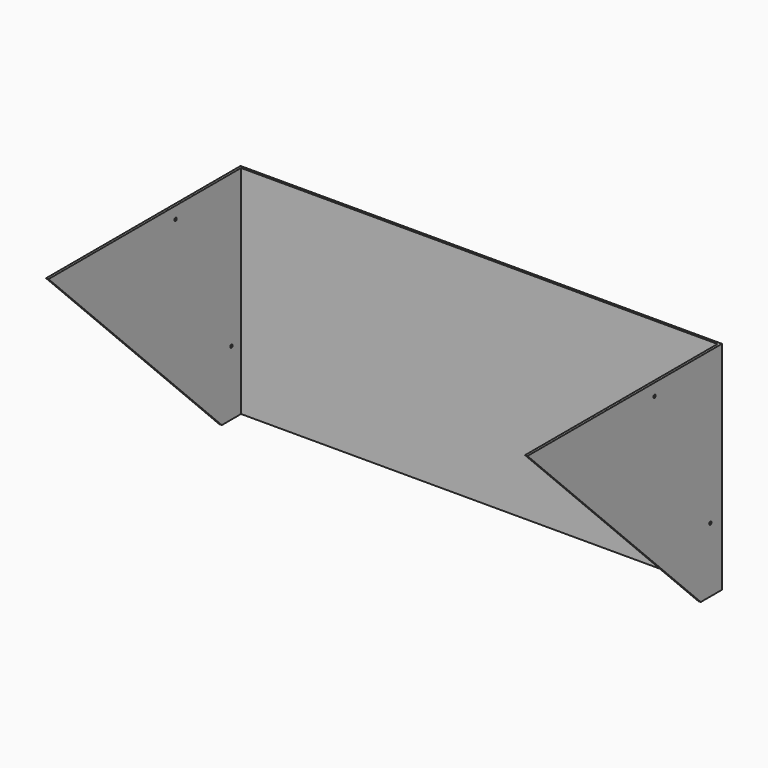
from build123d import *

# Parameters (mm, degrees)
F0_W     = 2000
F0_H     = 900
F1_DEPTH = 5
F2_W     = 10
F2_H     = 900
F3_DEPTH = 1000
F5_DEPTH = 2000.001
F7_D     = 12


with BuildPart() as f1:
    # F0 (on Front) → F1 (new body, symmetric)
    with BuildSketch(Plane.XZ):
        Rectangle(F0_W, F0_H)
    extrude(amount=F1_DEPTH, both=True)

    # F2 (on face) → F3 (join)
    with BuildSketch(Plane.XZ.offset(5)):
        with Locations((-995, 0)):
            Rectangle(F2_W, F2_H)
        with Locations((995, 0)):
            Rectangle(F2_W, F2_H)
    extrude(amount=F3_DEPTH)

    # F4 (on face) → F5 (cut, through all)
    with BuildSketch(Plane.YZ.offset(1000)):
        Polygon((-105, -450), (-1005, 450), (-1005, -450), align=None)
    extrude(amount=-F5_DEPTH, mode=Mode.SUBTRACT)

    # F7 (through all)
    with Locations(Plane(origin=(-1000, 0, 0), x_dir=(0, -1, 0), z_dir=(-1, 0, 0))):
        with Locations((345, 400), (55, -181.721583)):
            Hole(F7_D / 2)


solid = f1.part
